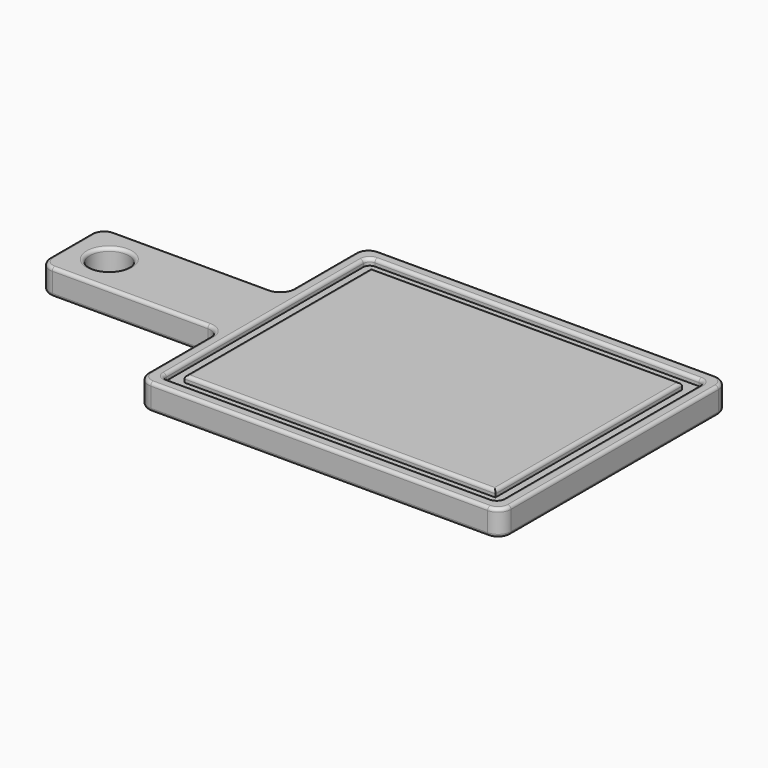
from build123d import *

# Parameters (mm, degrees)
F0_W     = 177.8
F0_H     = 76.2
F1_DEPTH = 25.4
F2_R     = 19.05
F3_DEPTH = 25.4
F5_DEPTH = 6.35
F6_R     = 6.35
F7_R     = 12.7
F8_R     = 3.175


with BuildPart() as f1:
    # F0 (on Top) → F1 (new body)
    with BuildSketch(Plane.XY):
        Polygon((0, 101.6), (0, 0), (355.6, 0), (355.6, 279.4), (0, 279.4), (0, 177.8), align=None)
        with Locations((-88.9, 139.7)):
            Rectangle(F0_W, F0_H)
    extrude(amount=F1_DEPTH)

    # F2 (on face) → F3 (cut)
    with BuildSketch(Plane.XY.offset(25.4)):
        with Locations((-139.7, 139.7)):
            Circle(F2_R)
    extrude(amount=-F3_DEPTH, mode=Mode.SUBTRACT)

    # F4 (on face) → F5 (cut)
    with BuildSketch(Plane.XY.offset(25.4)):
        Polygon((12.7000004292, 101.6), (12.7000004292, 12.7000004292), (342.8999995708, 12.7000004292), (342.8999995708, 266.6999995708), (12.7000004292, 266.6999995708), (12.7000004292, 177.8), align=None)
        Polygon((25.3999918938, 101.6), (25.3999918938, 177.8), (25.3999918938, 254.0000081062), (330.2000081062, 254.0000081062), (330.2000081062, 25.3999918938), (25.3999918938, 25.3999918938), align=None, mode=Mode.SUBTRACT)
    extrude(amount=-F5_DEPTH, mode=Mode.SUBTRACT)

    # F6
    f6_edges = [f1.edges().sort_by_distance(p)[0] for p in [
        (12.7, 266.7, 22.225),
        (342.9, 266.7, 22.225),
        (12.7, 12.7, 22.225),
        (342.9, 12.7, 22.225),
    ]]
    fillet(f6_edges, radius=F6_R)

    # F7
    f7_edges = [f1.edges().sort_by_distance(p)[0] for p in [
        (0, 101.6, 12.7),
        (0, 177.8, 12.7),
        (0, 279.4, 12.7),
        (0, 0, 12.7),
        (-177.8, 101.6, 12.7),
        (-177.8, 177.8, 12.7),
        (355.6, 279.4, 12.7),
        (355.6, 0, 12.7),
    ]]
    fillet(f7_edges, radius=F7_R)

    # F8
    f8_edges = [f1.edges().sort_by_distance(p)[0] for p in [
        (177.8, 254.000008, 25.4),
        (330.200008, 139.7, 25.4),
        (177.8, 25.399992, 25.4),
        (25.399992, 139.7, 25.4),
        (0, 50.8, 25.4),
        (-3.719744, 97.880256, 25.4),
        (3.719744, 3.719744, 25.4),
        (-88.9, 101.6, 25.4),
        (177.8, 0, 25.4),
        (-174.080256, 105.319744, 25.4),
        (351.880256, 3.719744, 25.4),
        (-177.8, 139.7, 25.4),
        (355.6, 139.7, 25.4),
        (-174.080256, 174.080256, 25.4),
        (351.880256, 275.680256, 25.4),
        (-88.9, 177.8, 25.4),
        (177.8, 279.4, 25.4),
        (-3.719744, 181.519744, 25.4),
        (3.719744, 275.680256, 25.4),
        (0, 228.6, 25.4),
        (177.8, 12.7, 25.4),
        (14.559872, 14.559872, 25.4),
        (341.040128, 14.559872, 25.4),
        (12.7, 139.7, 25.4),
        (342.9, 139.7, 25.4),
        (14.559872, 264.840128, 25.4),
        (341.040128, 264.840128, 25.4),
        (177.8, 266.7, 25.4),
        (-158.75, 139.7, 25.4),
        (0, 50.8, 0),
        (-3.719744, 97.880256, 0),
        (3.719744, 3.719744, 0),
        (-88.9, 101.6, 0),
        (177.8, 0, 0),
        (-174.080256, 105.319744, 0),
        (351.880256, 3.719744, 0),
        (-177.8, 139.7, 0),
        (355.6, 139.7, 0),
        (-174.080256, 174.080256, 0),
        (351.880256, 275.680256, 0),
        (-88.9, 177.8, 0),
        (177.8, 279.4, 0),
        (-3.719744, 181.519744, 0),
        (3.719744, 275.680256, 0),
        (0, 228.6, 0),
        (-158.75, 139.7, 0),
    ]]
    fillet(f8_edges, radius=F8_R)


solid = f1.part
